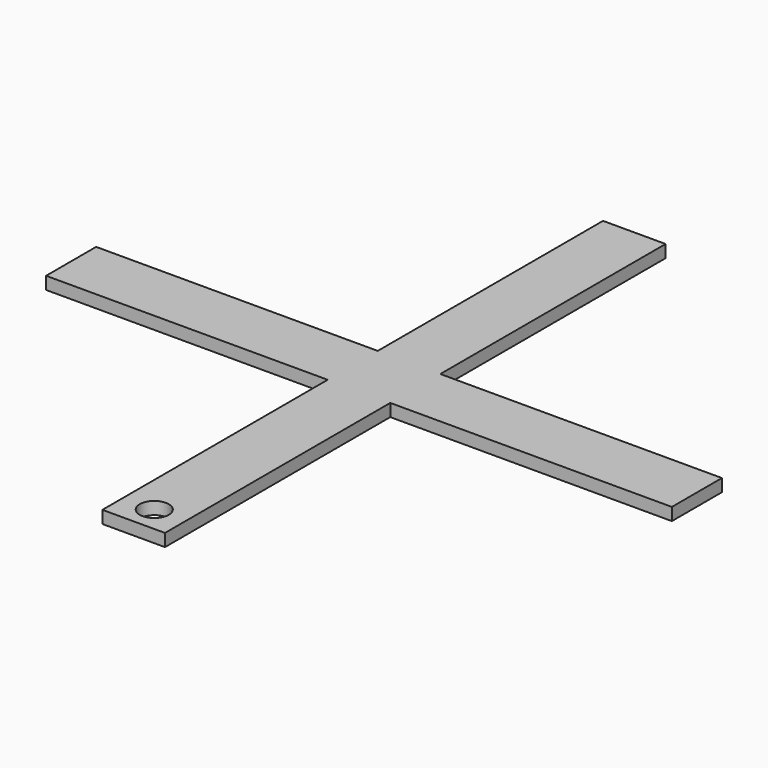
from build123d import *

# Parameters (mm, degrees)
F0_W     = 150
F0_H     = 15
F1_DEPTH = 3
F2_W     = 15
F2_H     = 150
F3_DEPTH = 3
F4_R     = 3.475604
F5_DEPTH = 25


with BuildPart() as f1:
    # F0 (on Top) → F1 (new body)
    with BuildSketch(Plane.XY):
        Rectangle(F0_W, F0_H)
    extrude(amount=F1_DEPTH)

    # F2 (on Top) → F3 (join)
    with BuildSketch(Plane.XY):
        Rectangle(F2_W, F2_H)
    extrude(amount=F3_DEPTH)

    # F4 (on face) → F5 (cut)
    with BuildSketch(Plane.XY.offset(3)):
        with Locations((0, -68.830863)):
            Circle(F4_R)
    extrude(amount=-F5_DEPTH, mode=Mode.SUBTRACT)


solid = f1.part
